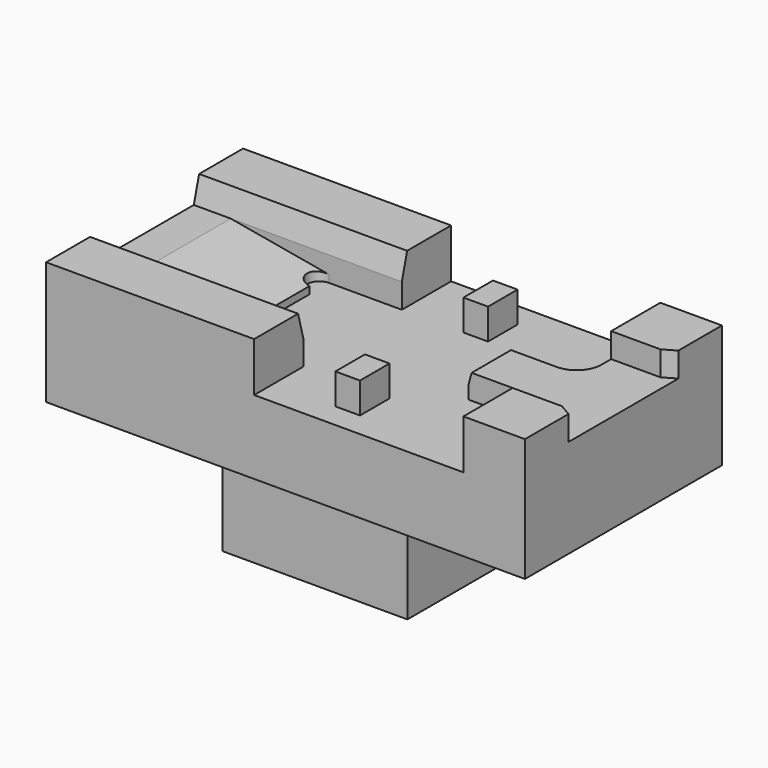
from build123d import *

# Parameters (mm, degrees)
F1_DEPTH    = 3
F3_DEPTH    = 5
F5_D        = 2
F5_DEPTH    = 2.001
F6_W        = 16.9
F6_H        = 5
F6_W_2      = 5
F7_DEPTH    = 4
F8_W        = 2
F8_H        = 3
F9_DEPTH    = 2.5
F11_DEPTH   = 2
F12_R       = 2
F13_SIZE2   = 1
F13_SIZE    = 0.2679491924
F14_SIZE2   = 2
F14_SIZE    = 0.5358983849
F14_2_SIZE2 = 2
F14_2_SIZE  = 0.5358983849
F15_SIZE2   = 1
F15_SIZE    = 0.5773502692
F16_W       = 15
F16_H       = 14
F17_DEPTH   = 8
F19_DEPTH   = 6
F21_D       = 2.5
F21_DEPTH   = 7.5
F21_TIP     = 0.7510757738


with BuildPart() as f1:
    # F0 (on Top) → F1 (new body, symmetric)
    with BuildSketch(Plane.XY):
        Polygon((19.45, 10), (0, 10), (-19.45, 10), (-19.45, -10), (19.45, -10), align=None)
    extrude(amount=F1_DEPTH, both=True)

    # F2 (on Front) → F3 (join, symmetric)
    with BuildSketch(Plane.XZ):
        Polygon((-8.45, 3.5893841543), (-16.45, 5), (-19.45, 5), (-19.45, 3), (-8.45, 3), align=None)
    extrude(amount=F3_DEPTH, both=True)

    # F5 (through all, one way)
    with BuildSketch(Plane(origin=(0, 0, 3), x_dir=(1, 0, 0), z_dir=(0, 0, -1))):
        with Locations((-8.45, -4), (-8.45, 4)):
            Circle(F5_D / 2)
    extrude(amount=-F5_DEPTH, mode=Mode.SUBTRACT)

    # F6 (on face) → F7 (join)
    with BuildSketch(Plane.XY.offset(3)):
        with Locations((-11, -7.5)):
            Rectangle(F6_W, F6_H)
        with Locations((-11, 7.5)):
            Rectangle(F6_W, F6_H)
        with Locations((16.95, 7.5)):
            Rectangle(F6_W_2, F6_H)
        with Locations((16.95, -7.5)):
            Rectangle(F6_W_2, F6_H)
    extrude(amount=F7_DEPTH)

    # F8 (on face) → F9 (join)
    with BuildSketch(Plane.XY.offset(3)):
        with Locations((3.45, 6.5)):
            Rectangle(F8_W, F8_H)
        with Locations((3.45, -6.5)):
            Rectangle(F8_W, F8_H)
    extrude(amount=F9_DEPTH)

    # F10 (on face) → F11 (join)
    with BuildSketch(Plane.XY.offset(3)):
        Polygon((19.45, -5), (19.45, 5), (14.45, 5), (14.45, 2), (8.45, 2), (8.45, -2), (14.45, -2), (14.45, -5), align=None)
    extrude(amount=F11_DEPTH)

    # F12
    f12_edges = [f1.edges().sort_by_distance(p)[0] for p in [
        (14.45, -2, 4),
        (14.45, 2, 4),
    ]]
    fillet(f12_edges, radius=F12_R)

    # F13
    f13_edges = [f1.edges().sort_by_distance(p)[0] for p in [
        (8.45, 0, 5),
    ]]
    f13_side = f1.faces().sort_by_distance((15.139847, 0, 5))[0]
    chamfer(f13_edges, length=F13_SIZE, length2=F13_SIZE2, reference=f13_side)

    # F14
    f14_edges = [f1.edges().sort_by_distance(p)[0] for p in [
        (-11, 5, 7),
    ]]
    f14_side = f1.faces().sort_by_distance((-11, 7.5, 7))[0]
    chamfer(f14_edges, length=F14_SIZE, length2=F14_SIZE2, reference=f14_side)

    # F14#2
    f14_2_edges = [f1.edges().sort_by_distance(p)[0] for p in [
        (-11, -5, 7),
    ]]
    f14_2_side = f1.faces().sort_by_distance((-11, -7.5, 7))[0]
    chamfer(f14_2_edges, length=F14_2_SIZE, length2=F14_2_SIZE2, reference=f14_2_side)

    # F15
    f15_edges = [f1.edges().sort_by_distance(p)[0] for p in [
        (19.45, 5, 6),
        (19.45, -5, 6),
    ]]
    f15_side = f1.faces().sort_by_distance((19.45, 0, 1.555556))[0]
    chamfer(f15_edges, length=F15_SIZE, length2=F15_SIZE2, reference=f15_side)

    # F16 (on face) → F17 (join)
    with BuildSketch(Plane(origin=(0, 0, -3), x_dir=(1, 0, 0), z_dir=(0, 0, -1))):
        Rectangle(F16_W, F16_H)
    extrude(amount=F17_DEPTH)

    # F18 (on face) → F19 (cut)
    with BuildSketch(Plane(origin=(0, 0, -11), x_dir=(1, 0, 0), z_dir=(0, 0, -1))):
        with BuildLine():
            Line((-2, 0), (-2, -1.5))
            ThreePointArc((-2, -1.5), (2.5, 0), (-2, 1.5))
            Line((-2, 1.5), (-2, 0))
        make_face()
    extrude(amount=-F19_DEPTH, mode=Mode.SUBTRACT)

    # F21
    with Locations(Plane(origin=(-7.5, 0, 0), x_dir=(0, -1, 0), z_dir=(-1, 0, 0))):
        with Locations((0, -8)):
            Hole(F21_D / 2, depth=F21_DEPTH)
            with Locations((0, 0, -(F21_DEPTH + F21_TIP / 2))):  # 118° drill point
                Cone(0, F21_D / 2, F21_TIP, mode=Mode.SUBTRACT)


solid = f1.part
